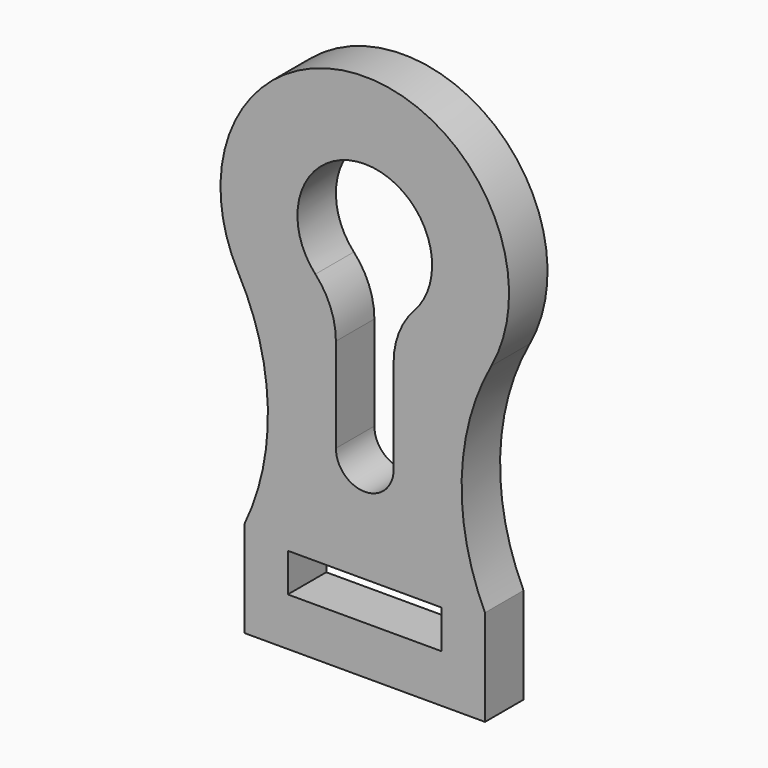
from build123d import *

# Parameters (mm, degrees)
F0_W     = 80
F0_H     = 20
F1_DEPTH = 25


with BuildPart() as f1:
    # F0 (on Front) → F1 (new body)
    with BuildSketch(Plane.XZ):
        with BuildLine():
            Line((-62.5, 0), (0, 0))
            Line((0, 0), (62.5, 0))
            Line((62.5, 0), (62.5, 50))
            ThreePointArc((62.5, 50), (50.387322, 107.351956), (65.751168, 163.919758))
            ThreePointArc((65.751168, 163.919758), (0, 275), (-65.751168, 163.919758))
            ThreePointArc((-65.751168, 163.919758), (-50.387322, 107.351956), (-62.5, 50))
            Line((-62.5, 50), (-62.5, 0))
        make_face()
        with Locations((0, 35)):
            Rectangle(F0_W, F0_H, mode=Mode.SUBTRACT)
        with BuildLine():
            ThreePointArc((-25.666667, 176.204576), (0, 235), (25.666667, 176.204576))
            ThreePointArc((25.666667, 176.204576), (17.762027, 163.61574), (15, 149.009805))
            Line((15, 149.009805), (15, 100))
            ThreePointArc((15, 100), (0, 85), (-15, 100))
            Line((-15, 100), (-15, 149.009805))
            ThreePointArc((-15, 149.009805), (-17.762027, 163.61574), (-25.666667, 176.204576))
        make_face(mode=Mode.SUBTRACT)
    extrude(amount=F1_DEPTH)


solid = f1.part
